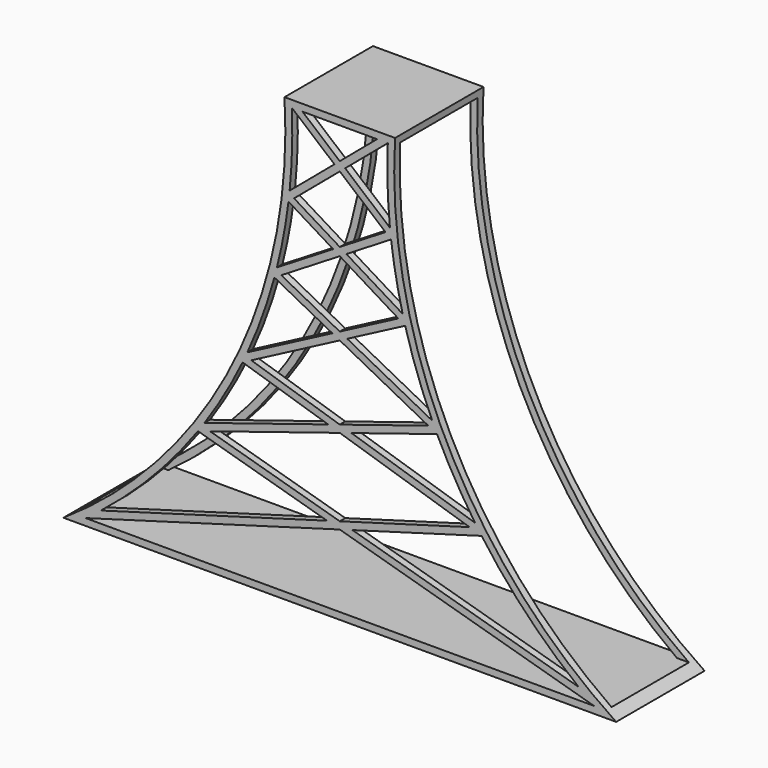
from build123d import *

# Parameters (mm, degrees)
F1_DEPTH = 25.4
F3_DEPTH = 25.401
F5_W     = 22.225
F5_H     = 98.425
F6_DEPTH = 134.621
F8_DEPTH = 1.5875


with BuildPart() as f1:
    # F0 (on Front) → F1 (new body)
    with BuildSketch(Plane.XZ):
        with BuildLine():
            Line((12.7, 101.6), (12.7, 0))
            Line((12.7, 0), (76.2, 0))
            ThreePointArc((76.2, 0), (37.2138180159, 44.0069090079), (25.4, 101.6))
            Line((25.4, 101.6), (12.7, 101.6))
        make_face()
        with BuildLine():
            Line((-50.8, 0), (12.7, 0))
            Line((12.7, 0), (12.7, 101.6))
            Line((12.7, 101.6), (0, 101.6))
            ThreePointArc((0, 101.6), (-11.8138180159, 44.0069090079), (-50.8, 0))
        make_face()
    extrude(amount=F1_DEPTH)

    # F2 (on face) → F3 (cut, through all)
    with BuildSketch(Plane.XZ.offset(25.4)):
        with BuildLine():
            ThreePointArc((71.1283228984, 1.5875), (35.0396824726, 44.8338255614), (23.7282488961, 100.0125))
            Line((23.7282488961, 100.0125), (1.6717511039, 100.0125))
            ThreePointArc((1.6717511039, 100.0125), (-9.6396824726, 44.8338255614), (-45.7283228984, 1.5875))
            Line((-45.7283228984, 1.5875), (71.1283228984, 1.5875))
        make_face()
    extrude(amount=-F3_DEPTH, mode=Mode.SUBTRACT)

    # F5 (on offset) → F6 (cut, through all)
    with BuildSketch(Plane.YZ.offset(83.82)):
        with Locations((-12.7, 50.8)):
            Rectangle(F5_W, F5_H)
    extrude(amount=-F6_DEPTH, mode=Mode.SUBTRACT)

    # F7 (on face) → F8 (join)
    with BuildSketch(Plane.XZ.offset(25.4)):
        with BuildLine():
            Line((13.9308617211, 91.7459002665), (23.7282488961, 100.0125))
            Line((23.7282488961, 100.0125), (21.2665254539, 100.0125))
            Line((21.2665254539, 100.0125), (12.7, 92.784446666))
            Line((12.7, 92.784446666), (12.7, 90.7073538669))
            Line((12.7, 90.7073538669), (23.203703887, 81.8447954927))
            Line((23.203703887, 81.8447954927), (12.7, 75.4199183699))
            Line((12.7, 75.4199183699), (12.7, 73.5589856846))
            Line((12.7, 73.5589856846), (14.2211719622, 74.4894520272))
            Line((14.2211719622, 74.4894520272), (24.4823150631, 80.7659602259))
            ThreePointArc((24.4823150631, 80.7659602259), (24.3465871841, 81.9135246636), (24.2223606039, 83.0623910408))
            Line((24.2223606039, 83.0623910408), (13.9308617211, 91.7459002665))
        make_face()
        with BuildLine():
            Line((12.7, 90.7073538669), (12.7, 92.784446666))
            Line((12.7, 92.784446666), (4.1334745461, 100.0125))
            Line((4.1334745461, 100.0125), (1.6717511039, 100.0125))
            Line((1.6717511039, 100.0125), (11.4691382789, 91.7459002665))
            Line((11.4691382789, 91.7459002665), (1.1776393961, 83.0623910408))
            ThreePointArc((1.1776393961, 83.0623910408), (1.0534128159, 81.9135246636), (0.9176849369, 80.7659602259))
            Line((0.9176849369, 80.7659602259), (11.1788280378, 74.4894520272))
            Line((11.1788280378, 74.4894520272), (-1.7401008163, 66.5872366432))
            ThreePointArc((-1.7401008163, 66.5872366432), (-1.8224554679, 66.2637756063), (-1.9057456257, 65.9405541952))
            Line((-1.9057456257, 65.9405541952), (-0.7461259732, 65.3342957957))
            Line((-0.7461259732, 65.3342957957), (12.7, 73.5589856846))
            Line((12.7, 73.5589856846), (12.7, 75.4199183699))
            Line((12.7, 75.4199183699), (2.196296113, 81.8447954927))
            Line((2.196296113, 81.8447954927), (12.7, 90.7073538669))
        make_face()
        with BuildLine():
            Line((27.1401008163, 66.5872366432), (14.2211719622, 74.4894520272))
            Line((14.2211719622, 74.4894520272), (12.7, 73.5589856846))
            Line((12.7, 73.5589856846), (26.1461259732, 65.3342957957))
            Line((26.1461259732, 65.3342957957), (27.3057456257, 65.9405541952))
            ThreePointArc((27.3057456257, 65.9405541952), (27.2224554679, 66.2637756063), (27.1401008163, 66.5872366432))
        make_face()
        with BuildLine():
            Line((12.7, 56.5131896629), (12.7, 58.3045539367))
            Line((12.7, 58.3045539367), (-0.7461259732, 65.3342957957))
            Line((-0.7461259732, 65.3342957957), (-2.3251365904, 64.3684508614))
            Line((-2.3251365904, 64.3684508614), (10.9867856194, 57.4088717998))
            Line((10.9867856194, 57.4088717998), (-8.5307429304, 47.204952269))
            ThreePointArc((-8.5307429304, 47.204952269), (-8.7388685778, 46.7490885521), (-8.9489724475, 46.2941331944))
            Line((-8.9489724475, 46.2941331944), (-7.6357223304, 45.8815119005))
            Line((-7.6357223304, 45.8815119005), (12.7, 56.5131896629))
        make_face()
        with BuildLine():
            Line((26.1461259732, 65.3342957957), (12.7, 58.3045539367))
            Line((12.7, 58.3045539367), (12.7, 56.5131896629))
            Line((12.7, 56.5131896629), (33.0357223304, 45.8815119005))
            Line((33.0357223304, 45.8815119005), (34.3489724475, 46.2941331944))
            ThreePointArc((34.3489724475, 46.2941331944), (34.1388685778, 46.7490885521), (33.9307429304, 47.204952269))
            Line((33.9307429304, 47.204952269), (14.4132143806, 57.4088717998))
            Line((14.4132143806, 57.4088717998), (27.7251365904, 64.3684508614))
            Line((27.7251365904, 64.3684508614), (26.1461259732, 65.3342957957))
        make_face()
        with BuildLine():
            Line((12.7, 37.8147295273), (12.7, 39.4920572546))
            Line((12.7, 39.4920572546), (-7.6357223304, 45.8815119005))
            Line((-7.6357223304, 45.8815119005), (-9.6396824726, 44.8338255614))
            Line((-9.6396824726, 44.8338255614), (10.030783861, 38.653393391))
            Line((10.030783861, 38.653393391), (-18.3805162111, 29.7266038582))
            ThreePointArc((-18.3805162111, 29.7266038582), (-18.6444962244, 29.3426124449), (-18.9100250772, 28.9596904146))
            Line((-18.9100250772, 28.9596904146), (-17.1145505748, 28.4470407091))
            Line((-17.1145505748, 28.4470407091), (12.7, 37.8147295273))
        make_face()
        with BuildLine():
            Line((33.0357223304, 45.8815119005), (12.7, 39.4920572546))
            Line((12.7, 39.4920572546), (12.7, 37.8147295273))
            Line((12.7, 37.8147295273), (42.5145505748, 28.4470407091))
            Line((42.5145505748, 28.4470407091), (44.3100250772, 28.9596904146))
            ThreePointArc((44.3100250772, 28.9596904146), (44.0444962244, 29.3426124449), (43.7805162111, 29.7266038582))
            Line((43.7805162111, 29.7266038582), (15.369216139, 38.653393391))
            Line((15.369216139, 38.653393391), (35.0396824726, 44.8338255614))
            Line((35.0396824726, 44.8338255614), (33.0357223304, 45.8815119005))
        make_face()
        with BuildLine():
            Line((42.5145505748, 28.4470407091), (12.7, 19.9342934931))
            Line((12.7, 19.9342934931), (12.7, 18.2701443298))
            Line((12.7, 18.2701443298), (71.1283228984, 1.5875))
            ThreePointArc((71.1283228984, 1.5875), (69.3505916333, 2.9065647427), (67.5984969335, 4.2594965256))
            Line((67.5984969335, 4.2594965256), (15.6142096044, 19.1022189114))
            Line((15.6142096044, 19.1022189114), (45.2894191126, 27.575181014))
            Line((45.2894191126, 27.575181014), (42.5145505748, 28.4470407091))
        make_face()
        with BuildLine():
            Line((12.7, 18.2701443298), (12.7, 19.9342934931))
            Line((12.7, 19.9342934931), (-17.1145505748, 28.4470407091))
            Line((-17.1145505748, 28.4470407091), (-19.8894191126, 27.575181014))
            Line((-19.8894191126, 27.575181014), (9.7857903956, 19.1022189114))
            Line((9.7857903956, 19.1022189114), (-42.1984969335, 4.2594965256))
            ThreePointArc((-42.1984969335, 4.2594965256), (-43.9505916333, 2.9065647427), (-45.7283228984, 1.5875))
            Line((-45.7283228984, 1.5875), (12.7, 18.2701443298))
        make_face()
        with BuildLine():
            Line((-19.8894191126, 27.575181014), (-17.1145505748, 28.4470407091))
            Line((-17.1145505748, 28.4470407091), (-18.9100250772, 28.9596904146))
            ThreePointArc((-18.9100250772, 28.9596904146), (-19.3971779809, 28.2656360226), (-19.8894191126, 27.575181014))
        make_face()
        with BuildLine():
            Line((34.3489724475, 46.2941331944), (33.0357223304, 45.8815119005))
            Line((33.0357223304, 45.8815119005), (35.0396824726, 44.8338255614))
            ThreePointArc((35.0396824726, 44.8338255614), (34.6917714104, 45.5627703936), (34.3489724475, 46.2941331944))
        make_face()
        with BuildLine():
            Line((44.3100250772, 28.9596904146), (42.5145505748, 28.4470407091))
            Line((42.5145505748, 28.4470407091), (45.2894191126, 27.575181014))
            ThreePointArc((45.2894191126, 27.575181014), (44.7971779809, 28.2656360226), (44.3100250772, 28.9596904146))
        make_face()
        with BuildLine():
            Line((-9.6396824726, 44.8338255614), (-7.6357223304, 45.8815119005))
            Line((-7.6357223304, 45.8815119005), (-8.9489724475, 46.2941331944))
            ThreePointArc((-8.9489724475, 46.2941331944), (-9.2917714104, 45.5627703936), (-9.6396824726, 44.8338255614))
        make_face()
        with BuildLine():
            ThreePointArc((27.7251365904, 64.3684508614), (27.5126695085, 65.153763147), (27.3057456257, 65.9405541952))
            Line((27.3057456257, 65.9405541952), (26.1461259732, 65.3342957957))
            Line((26.1461259732, 65.3342957957), (27.7251365904, 64.3684508614))
        make_face()
        with BuildLine():
            Line((-2.3251365904, 64.3684508614), (-0.7461259732, 65.3342957957))
            Line((-0.7461259732, 65.3342957957), (-1.9057456257, 65.9405541952))
            ThreePointArc((-1.9057456257, 65.9405541952), (-2.1126695085, 65.153763147), (-2.3251365904, 64.3684508614))
        make_face()
    extrude(amount=-F8_DEPTH)


solid = f1.part
